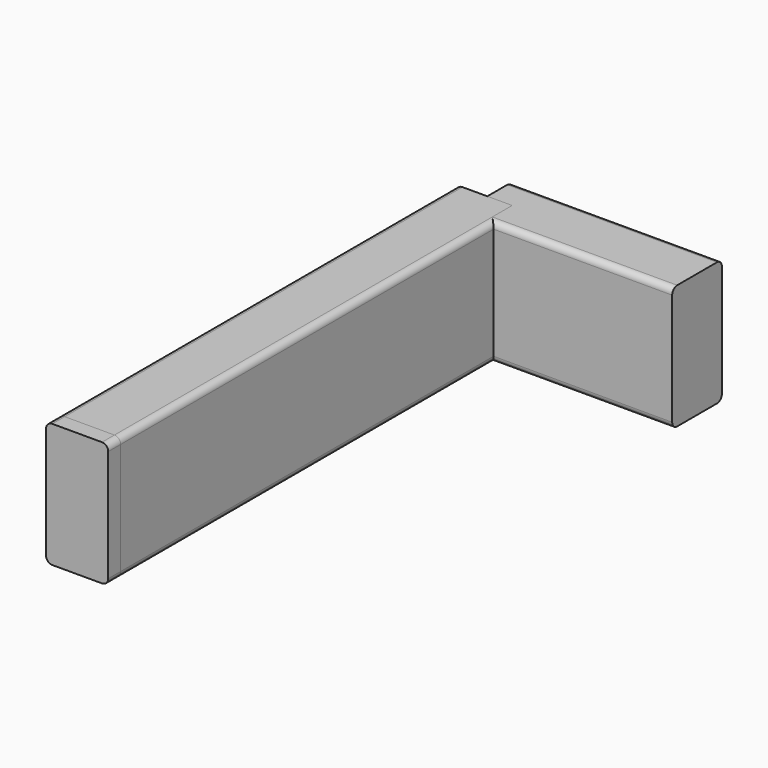
from build123d import *

# Parameters (mm, degrees)
PAD_DEPTH    = 67.5
PAD001_DEPTH = 165
PAD002_DEPTH = 160


with BuildPart() as frontbridgebody:
    # Sketch → Pad (new body)
    with BuildSketch(Plane.YZ):
        with BuildLine():
            Line((-8, 20), (8, 20))
            ThreePointArc((10, 18), (9.414214, 19.414214), (8, 20))
            Line((10, 18), (10, -18))
            ThreePointArc((8, -20), (9.414214, -19.414214), (10, -18))
            Line((8, -20), (-8, -20))
            ThreePointArc((-10, -18), (-9.414214, -19.414214), (-8, -20))
            Line((-10, -18), (-10, 18))
            ThreePointArc((-8, 20), (-9.414214, 19.414214), (-10, 18))
        make_face()
    extrude(amount=PAD_DEPTH)


with BuildPart() as body_bridge_side:
    # Sketch001 → Pad001 (new body)
    with BuildSketch(Plane.XZ):
        with BuildLine():
            Line((-8, 20), (8, 20))
            ThreePointArc((10, 18), (9.414214, 19.414214), (8, 20))
            Line((10, 18), (10, -18))
            ThreePointArc((8, -20), (9.414214, -19.414214), (10, -18))
            Line((8, -20), (-8, -20))
            ThreePointArc((-10, -18), (-9.414214, -19.414214), (-8, -20))
            Line((-10, -18), (-10, 18))
            ThreePointArc((-8, 20), (-9.414214, 19.414214), (-10, 18))
        make_face()
    extrude(amount=PAD001_DEPTH)


with BuildPart() as body_bridge_back:
    # Sketch002 → Pad002 (new body)
    with BuildSketch(Plane.XZ):
        with BuildLine():
            Line((-8, 20), (8, 20))
            ThreePointArc((10, 18), (9.414214, 19.414214), (8, 20))
            Line((10, 18), (10, -18))
            ThreePointArc((8, -20), (9.414214, -19.414214), (10, -18))
            Line((8, -20), (-8, -20))
            ThreePointArc((-10, -18), (-9.414214, -19.414214), (-8, -20))
            Line((-10, -18), (-10, 18))
            ThreePointArc((-8, 20), (-9.414214, 19.414214), (-10, 18))
        make_face()
    extrude(amount=PAD002_DEPTH)


solid = Compound([frontbridgebody.part, body_bridge_side.part, body_bridge_back.part])
